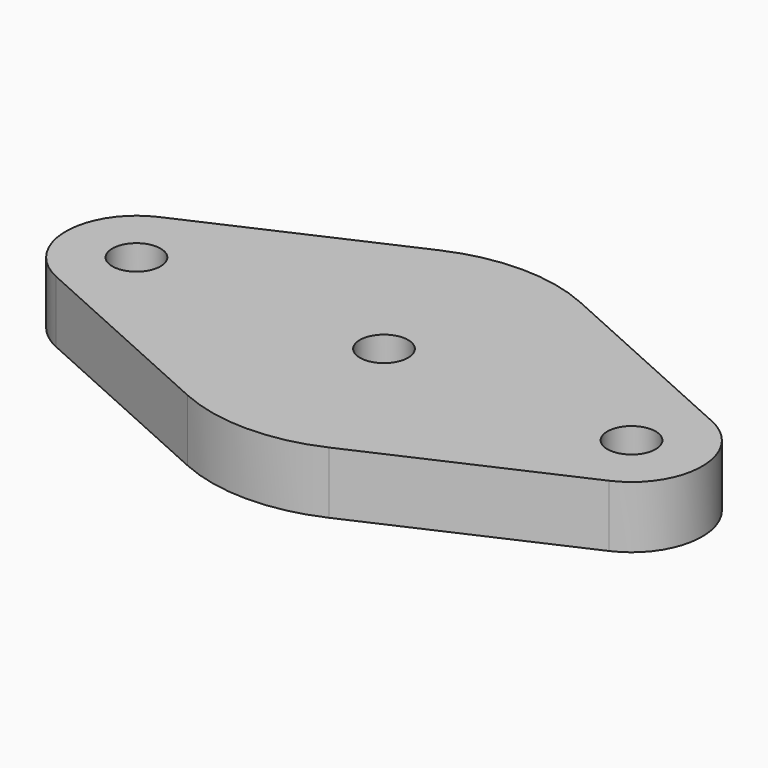
from build123d import *

# Parameters (mm, degrees)
F0_R     = 13.9065
F0_R_2   = 9.906
F1_DEPTH = 25.4


with BuildPart() as f1:
    # F0 (on Top) → F1 (new body)
    with BuildSketch(Plane.XY):
        with BuildLine():
            Line((70.7064372, 0), (64.77, 0))
            ThreePointArc((64.77, 0), (0, -64.77), (-64.77, 0))
            Line((-64.77, 0), (-70.7064372, 0))
            ThreePointArc((-70.7064372, 0), (-59.3851891605, -38.3770708873), (-29.0468761129, -64.4645580889))
            ThreePointArc((-29.0468761129, -64.4645580889), (0, -70.7064372), (29.0468761129, -64.4645580889))
            ThreePointArc((29.0468761129, -64.4645580889), (59.3851891605, -38.3770708873), (70.7064372, 0))
        make_face()
        with BuildLine():
            ThreePointArc((-64.77, 0), (0, 64.77), (64.77, 0))
            Line((64.77, 0), (70.7064372, 0))
            ThreePointArc((70.7064372, 0), (59.3851891605, 38.3770708873), (29.0468761129, 64.4645580889))
            ThreePointArc((29.0468761129, 64.4645580889), (0, 70.7064372), (-29.0468761129, 64.4645580889))
            ThreePointArc((-29.0468761129, 64.4645580889), (-59.3851891605, 38.3770708873), (-70.7064372, 0))
            Line((-70.7064372, 0), (-64.77, 0))
        make_face()
        with BuildLine():
            Line((72.631808, 0), (70.7064372, 0))
            ThreePointArc((70.7064372, 0), (59.3851891605, -38.3770708873), (29.0468761129, -64.4645580889))
            Line((29.0468761129, -64.4645580889), (113.5004084714, -26.410914902))
            ThreePointArc((113.5004084714, -26.410914902), (85.8770417817, -24.3299143569), (72.631808, 0))
        make_face()
        with BuildLine():
            ThreePointArc((29.0468761129, 64.4645580889), (59.3851891605, 38.3770708873), (70.7064372, 0))
            Line((70.7064372, 0), (72.631808, 0))
            ThreePointArc((72.631808, 0), (85.8770417817, 24.3299143569), (113.5004084714, 26.410914902))
            Line((113.5004084714, 26.410914902), (29.0468761129, 64.4645580889))
        make_face()
        with BuildLine():
            Line((-72.631808, 0), (-70.7064372, 0))
            ThreePointArc((-70.7064372, 0), (-59.3851891605, 38.3770708873), (-29.0468761129, 64.4645580889))
            Line((-29.0468761129, 64.4645580889), (-113.5004084714, 26.410914902))
            ThreePointArc((-113.5004084714, 26.410914902), (-85.8770417817, 24.3299143569), (-72.631808, 0))
        make_face()
        with BuildLine():
            ThreePointArc((-29.0468761129, -64.4645580889), (-59.3851891605, -38.3770708873), (-70.7064372, 0))
            Line((-70.7064372, 0), (-72.631808, 0))
            ThreePointArc((-72.631808, 0), (-85.8770417817, -24.3299143569), (-113.5004084714, -26.410914902))
            Line((-113.5004084714, -26.410914902), (-29.0468761129, -64.4645580889))
        make_face()
        with BuildLine():
            ThreePointArc((113.5004084714, 26.410914902), (85.8770417817, 24.3299143569), (72.631808, 0))
            ThreePointArc((72.631808, 0), (85.8770417817, -24.3299143569), (113.5004084714, -26.410914902))
            ThreePointArc((113.5004084714, -26.410914902), (125.9299143569, -15.7229582183), (130.568192, 0))
            ThreePointArc((130.568192, 0), (125.9299143569, 15.7229582183), (113.5004084714, 26.410914902))
        make_face()
        with BuildLine():
            ThreePointArc((115.5065, 0), (101.6, -13.9065), (87.6935, 0))
            ThreePointArc((87.6935, 0), (101.6, 13.9065), (115.5065, 0))
        make_face(mode=Mode.SUBTRACT)
        with BuildLine():
            ThreePointArc((-113.5004084714, -26.410914902), (-85.8770417817, -24.3299143569), (-72.631808, 0))
            ThreePointArc((-72.631808, 0), (-85.8770417817, 24.3299143569), (-113.5004084714, 26.410914902))
            ThreePointArc((-113.5004084714, 26.410914902), (-130.568192, 0), (-113.5004084714, -26.410914902))
        make_face()
        with Locations((-101.6, 0)):
            Circle(F0_R, mode=Mode.SUBTRACT)
        with BuildLine():
            ThreePointArc((-64.77, 0), (0, -64.77), (64.77, 0))
            Line((64.77, 0), (9.906, 0))
            ThreePointArc((9.906, 0), (0, -9.906), (-9.906, 0))
            Line((-9.906, 0), (-64.77, 0))
        make_face()
        with BuildLine():
            Line((9.906, 0), (64.77, 0))
            ThreePointArc((64.77, 0), (0, 64.77), (-64.77, 0))
            Line((-64.77, 0), (-9.906, 0))
            ThreePointArc((-9.906, 0), (0, 9.906), (9.906, 0))
        make_face()
        with BuildLine():
            ThreePointArc((115.5065, 0), (101.6, 13.9065), (87.6935, 0))
            ThreePointArc((87.6935, 0), (101.6, -13.9065), (115.5065, 0))
        make_face()
        with BuildLine():
            ThreePointArc((111.506, 0), (101.6, -9.906), (91.694, 0))
            ThreePointArc((91.694, 0), (101.6, 9.906), (111.506, 0))
        make_face(mode=Mode.SUBTRACT)
        with Locations((-101.6, 0)):
            Circle(F0_R)
        with Locations((-101.6, 0)):
            Circle(F0_R_2, mode=Mode.SUBTRACT)
    extrude(amount=F1_DEPTH)


solid = f1.part
